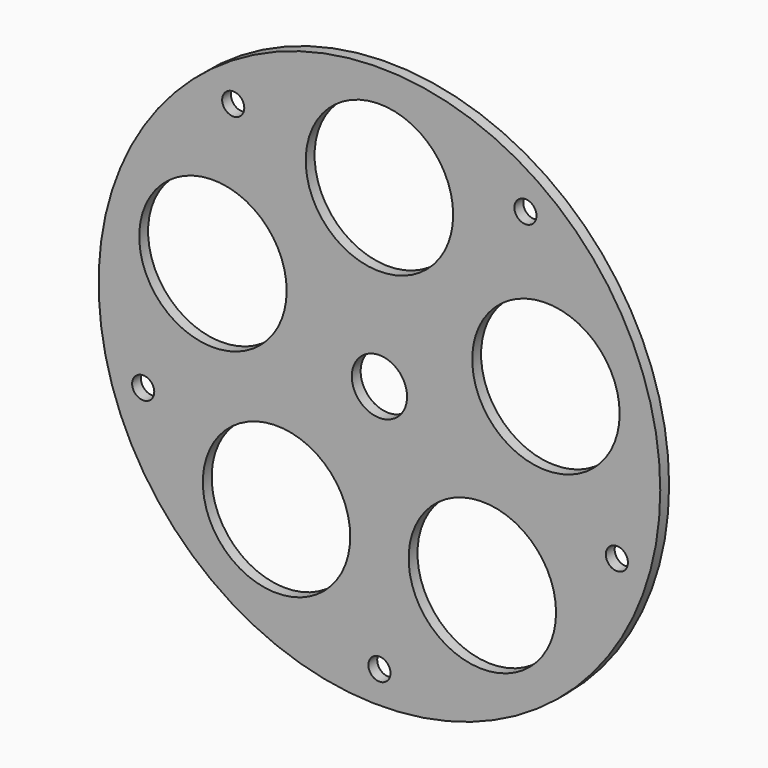
from build123d import *

# Parameters (mm, degrees)
F1_R     = 76.2
F1_R_2   = 20
F1_R_3   = 3
F1_R_4   = 7.5
F2_DEPTH = 3


with BuildPart() as f2:
    # F1 (on Front) → F2 (new body)
    with BuildSketch(Plane.XZ):
        Circle(F1_R)
        with Locations((-27.919799, -38.428307)):
            Circle(F1_R_2, mode=Mode.SUBTRACT)
        with Locations((-64.098769, -21.156509)):
            Circle(F1_R_3, mode=Mode.SUBTRACT)
        with Locations((0, -67.5)):
            Circle(F1_R_3, mode=Mode.SUBTRACT)
        with Locations((27.919799, -38.428307)):
            Circle(F1_R_2, mode=Mode.SUBTRACT)
        with Locations((64.424081, -20.144176)):
            Circle(F1_R_3, mode=Mode.SUBTRACT)
        with Locations((-45.175185, 14.678307)):
            Circle(F1_R_2, mode=Mode.SUBTRACT)
        with Locations((-39.675505, 54.608647)):
            Circle(F1_R_3, mode=Mode.SUBTRACT)
        Circle(F1_R_4, mode=Mode.SUBTRACT)
        with Locations((45.175185, 14.678307)):
            Circle(F1_R_2, mode=Mode.SUBTRACT)
        with Locations((0, 47.5)):
            Circle(F1_R_2, mode=Mode.SUBTRACT)
        with Locations((39.615401, 54.652264)):
            Circle(F1_R_3, mode=Mode.SUBTRACT)
    extrude(amount=-F2_DEPTH)


solid = f2.part
